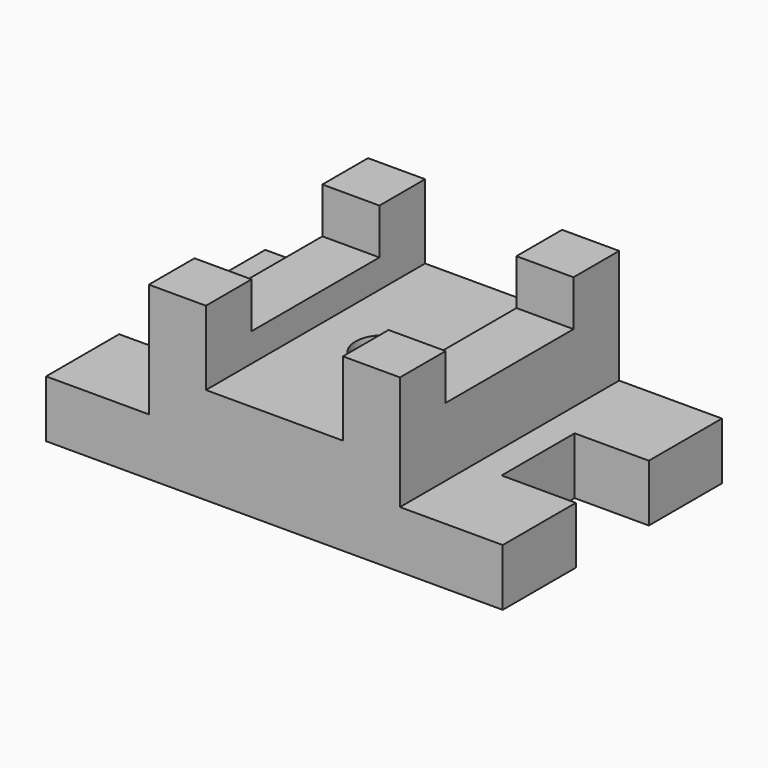
from build123d import *

# Parameters (mm, degrees)
F0_R      = 15.875
F1_DEPTH  = 31.75
F2_W      = 139.7
F2_H      = 152.4
F2_R      = 15.875
F3_DEPTH  = 22.225
F4_W      = 31.75
F4_H      = 152.4
F5_DEPTH  = 15.875
F6_W      = 31.75
F6_H      = 31.75
F7_DEPTH  = 25.4
F8_W      = 31.75
F8_H      = 31.75
F9_DEPTH  = 25.4
F10_W     = 31.75
F10_H     = 31.75
F11_DEPTH = 25.4


with BuildPart() as f1:
    # F0 (on Top) → F1 (new body)
    with BuildSketch(Plane.XY):
        Polygon((-127, -76.2), (0, -76.2), (127, -76.2), (127, -25.4), (85.725, -25.4), (85.725, 25.4), (127, 25.4), (127, 76.2), (0, 76.2), (-127, 76.2), (-127, 25.4), (-85.725, 25.4), (-85.725, -25.370175183), (-127, -25.4), align=None)
        Circle(F0_R, mode=Mode.SUBTRACT)
    extrude(amount=F1_DEPTH)

    # F2 (on face) → F3 (join)
    with BuildSketch(Plane.XY.offset(31.75)):
        Rectangle(F2_W, F2_H)
        Circle(F2_R, mode=Mode.SUBTRACT)
    extrude(amount=F3_DEPTH)

    # F4 (on face) → F5 (join)
    with BuildSketch(Plane.XY.offset(53.975)):
        with Locations((-53.975, 0)):
            Rectangle(F4_W, F4_H)
        with Locations((53.975, 0)):
            Rectangle(F4_W, F4_H)
    extrude(amount=F5_DEPTH)

    # F6 (on face) → F7 (join)
    with BuildSketch(Plane.XY.offset(69.85)):
        with Locations((53.975, -60.325)):
            Rectangle(F6_W, F6_H)
    extrude(amount=F7_DEPTH)

    # F8 (on face) → F9 (join)
    with BuildSketch(Plane.XY.offset(69.85)):
        with Locations((53.975, 60.325)):
            Rectangle(F8_W, F8_H)
    extrude(amount=F9_DEPTH)

    # F10 (on face) → F11 (join)
    with BuildSketch(Plane.XY.offset(69.85)):
        with Locations((-53.975, -60.325)):
            Rectangle(F10_W, F10_H)
        with Locations((-53.975, 60.325)):
            Rectangle(F10_W, F10_H)
    extrude(amount=F11_DEPTH)


solid = f1.part
